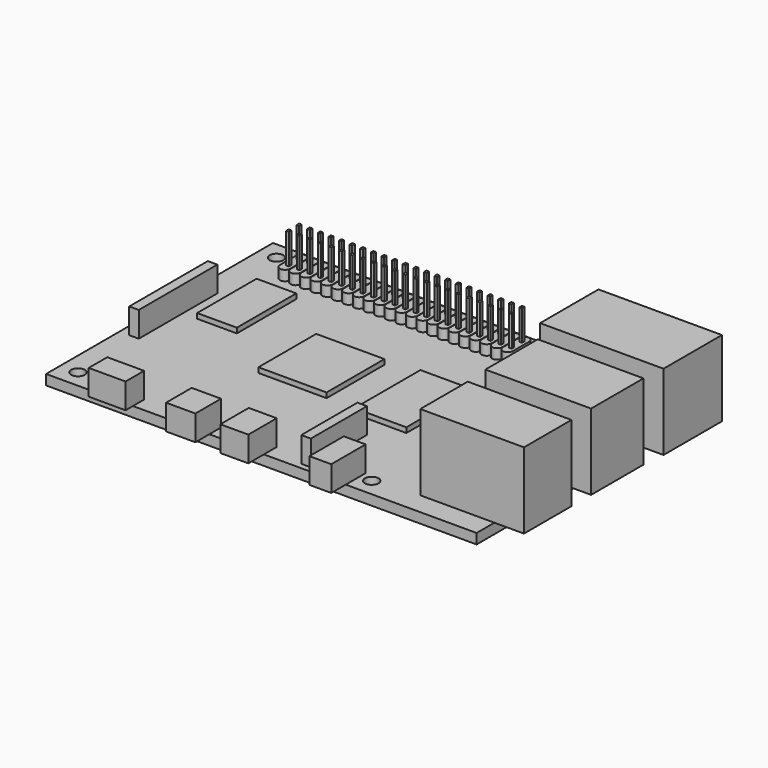
from build123d import *

# Parameters (mm, degrees)
SKETCH_W               = 85
SKETCH_H               = 56
PAD_DEPTH              = 2
SKETCH001_R            = 1.35
POCKET_DEPTH           = 5
SKETCH002_W            = 24.376132
SKETCH002_H            = 14.410209
SKETCH002_W_2          = 20.874603
SKETCH002_H_2          = 12.928789
SKETCH002_W_3          = 20.470574
SKETCH002_H_3          = 11.716716
PAD001_DEPTH           = 15
SKETCH003_W            = 10.246475
SKETCH003_H            = 16.273813
SKETCH003_W_2          = 13.461049
SKETCH003_H_2          = 14.264701
SKETCH003_W_3          = 7.835544
SKETCH003_H_3          = 14.666524
PAD002_DEPTH           = 1
PAD003_DEPTH           = 2
LINEARPATTERN_COUNT    = 22
LINEARPATTERN_PITCH    = 2.095238
SKETCH005_W            = 0.516621
SKETCH005_H            = 0.625377
SKETCH005_W_2          = 0.543808
SKETCH005_H_2          = 0.598186
PAD004_DEPTH           = 6
LINEARPATTERN001_COUNT = 22
LINEARPATTERN001_PITCH = 2.095238
SKETCH006_W            = 1.885447
SKETCH006_H            = 19.39319
SKETCH006_W_2          = 7.272449
SKETCH006_H_2          = 4.578947
SKETCH006_W_3          = 5.791018
SKETCH006_H_3          = 6.329722
SKETCH006_W_4          = 5.521667
SKETCH006_H_4          = 7.003095
SKETCH006_W_5          = 1.885448
SKETCH006_H_5          = 13.871518
SKETCH006_W_6          = 4.309597
SKETCH006_H_6          = 8.48452
PAD005_DEPTH           = 5


with BuildPart() as part:
    # Sketch → Pad (new body)
    with BuildSketch(Plane.XY):
        with Locations((42.5, 28)):
            Rectangle(SKETCH_W, SKETCH_H)
    extrude(amount=PAD_DEPTH)

    # Sketch001 (on Face6 of Pad) → Pocket (cut)
    with BuildSketch(Plane.XY.offset(2)):
        with Locations((3.5, 3.5)):
            Circle(SKETCH001_R)
        with Locations((3.5, 52.5)):
            Circle(SKETCH001_R)
        with Locations((61.5, 52.5)):
            Circle(SKETCH001_R)
        with Locations((61.5, 3.5)):
            Circle(SKETCH001_R)
    extrude(amount=-POCKET_DEPTH, mode=Mode.SUBTRACT)

    # Sketch002 (on Face5 of Pocket) → Pad001 (join)
    with BuildSketch(Plane.XY.offset(2)):
        with Locations((79.058714, 45.537769)):
            Rectangle(SKETCH002_W, SKETCH002_H)
        with Locations((80.405464, 27.423991)):
            Rectangle(SKETCH002_W_2, SKETCH002_H_2)
        with Locations((80.607479, 10.252945)):
            Rectangle(SKETCH002_W_3, SKETCH002_H_3)
    extrude(amount=PAD001_DEPTH)

    # Sketch003 (on Face5 of Pad001) → Pad002 (join)
    with BuildSketch(Plane.XY.offset(2)):
        with Locations((50.580601, 27.427054)):
            Rectangle(SKETCH003_W, SKETCH003_H)
        with Locations((32.096765, 27.828876)):
            Rectangle(SKETCH003_W_2, SKETCH003_H_2)
        with Locations((10.599252, 36.267155)):
            Rectangle(SKETCH003_W_3, SKETCH003_H_3)
    extrude(amount=PAD002_DEPTH)

    # Sketch004 (on Face5 of Pad002) → Pad003 (join)
    with BuildSketch(Plane.XY.offset(2)):
        with BuildLine():
            ThreePointArc((51.828135, 47.939813), (52.828135, 46.939813), (53.828135, 47.939813))
            Line((53.828135, 47.939813), (53.828135, 51.943673))
            ThreePointArc((53.828135, 51.943673), (52.828135, 52.943673), (51.828135, 51.943673))
            Line((51.828135, 47.939813), (51.828135, 51.943673))
        make_face()
    pad003 = extrude(amount=PAD003_DEPTH)

    # LinearPattern: Pad003 ×22
    with Locations(*[(-i * LINEARPATTERN_PITCH, 0, 0) for i in range(1, LINEARPATTERN_COUNT)]):
        add(pad003)

    # Sketch005 (on Face142 of LinearPattern) → Pad004 (join)
    with BuildSketch(Plane.XY.offset(4)):
        with Locations((52.945089, 51.274634)):
            Rectangle(SKETCH005_W, SKETCH005_H)
        with Locations((52.931496, 48.732332)):
            Rectangle(SKETCH005_W_2, SKETCH005_H_2)
    pad004 = extrude(amount=PAD004_DEPTH)

    # LinearPattern001: Pad004 ×22
    with Locations(*[(-i * LINEARPATTERN001_PITCH, 0, 0) for i in range(1, LINEARPATTERN001_COUNT)]):
        add(pad004)

    # Sketch006 (on Face5 of LinearPattern001) → Pad005 (join)
    with BuildSketch(Plane.XY.offset(2)):
        with Locations((2.871674, 27.807166)):
            Rectangle(SKETCH006_W, SKETCH006_H)
        with Locations((13.51099, 0.468159)):
            Rectangle(SKETCH006_W_2, SKETCH006_H_2)
        with Locations((29.335292, -0.272553)):
            Rectangle(SKETCH006_W_3, SKETCH006_H_3)
        with Locations((40.243961, -0.33989)):
            Rectangle(SKETCH006_W_4, SKETCH006_H_4)
        with Locations((50.411917, 8.077292)):
            Rectangle(SKETCH006_W_5, SKETCH006_H_5)
        with Locations((57.010984, 0.670172)):
            Rectangle(SKETCH006_W_6, SKETCH006_H_6)
    extrude(amount=PAD005_DEPTH)


solid = part.part
